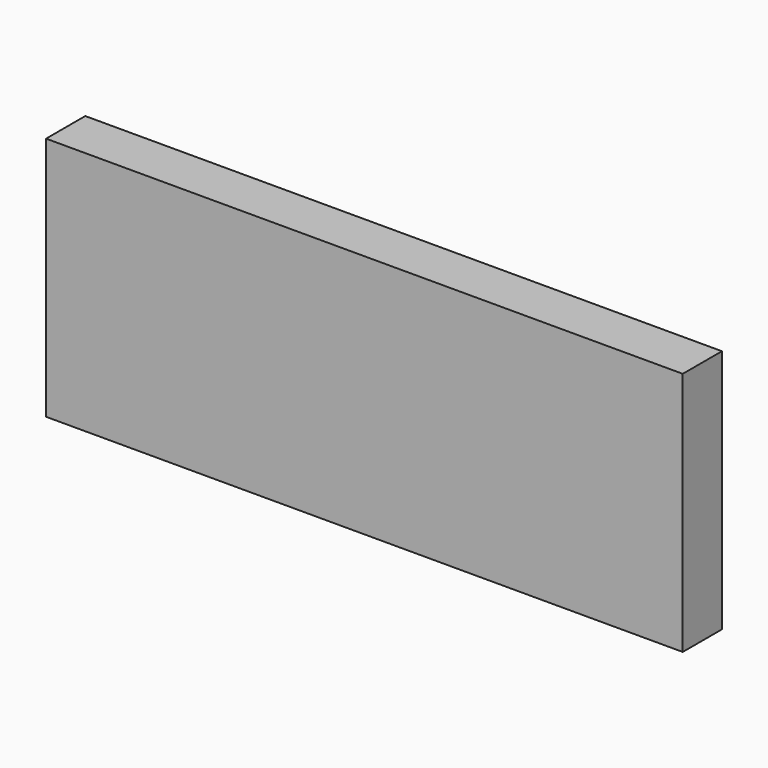
from build123d import *

# Parameters (mm, degrees)
SKETCH009_W  = 20
SKETCH009_H  = 100
PAD008_DEPTH = 20
SKETCH008_W  = 20
SKETCH008_H  = 100
PAD009_DEPTH = 20
BOX011_W     = 300
BOX011_H     = 20
BOX011_DEPTH = 100


with BuildPart() as pad008:
    # Sketch009 → Pad008 (new body)
    with BuildSketch(Plane(origin=(0, 0, 10), x_dir=(0, 1, 0), z_dir=(1, 0, 0))):
        with Locations((10, 50)):
            Rectangle(SKETCH009_W, SKETCH009_H)
    extrude(amount=PAD008_DEPTH)


with BuildPart() as back_parts_cut:
    # Sketch008 → Pad009 (new body)
    with BuildSketch(Plane(origin=(300, 0, 10), x_dir=(0, 1, 0), z_dir=(1, 0, 0))):
        with Locations((10, 50)):
            Rectangle(SKETCH008_W, SKETCH008_H)
    extrude(amount=-PAD009_DEPTH)

    # Fusion003: union Pad008
    add(pad008.part)


with BuildPart() as back_cut:
    # Box011 → Box011 (new body)
    with BuildSketch(Plane.XY.offset(10)):
        with Locations((150, 10)):
            Rectangle(BOX011_W, BOX011_H)
    extrude(amount=BOX011_DEPTH)

    # Cut003: cut Back, parts cut
    add(back_parts_cut.part, mode=Mode.SUBTRACT)


with BuildPart() as back_cut_1:
    # Cut003 placement: moved
    add(back_cut.part.moved(Location((0, 180, 0))))


solid = back_cut_1.part
